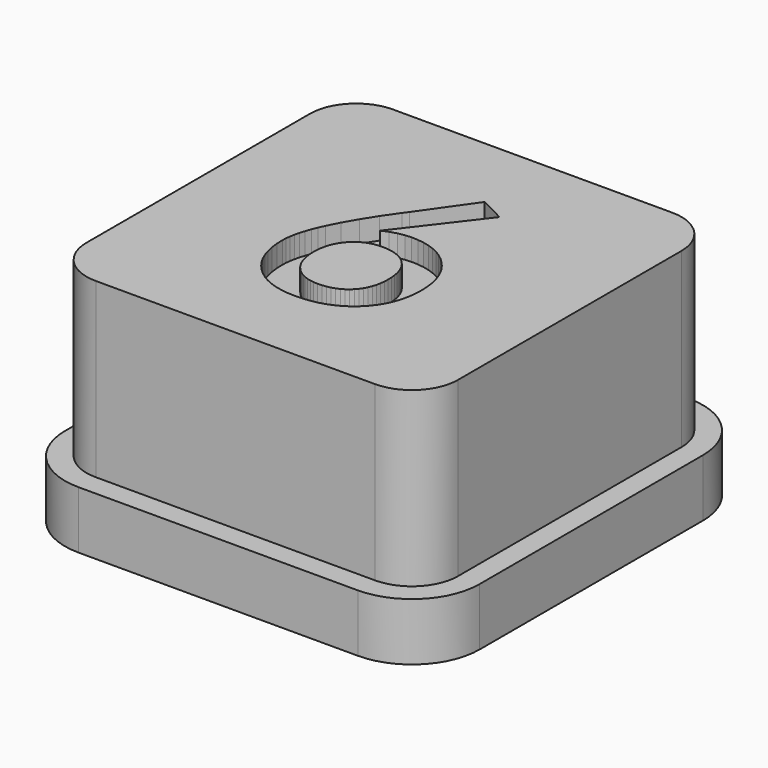
from build123d import *

# Parameters (mm, degrees)
F1_DEPTH = 2
F2_DEPTH = 8
F3_DEPTH = 7.25


with BuildPart() as f1:
    # F0 (on Top) → F1 (new body)
    with BuildSketch(Plane.XY):
        with BuildLine():
            Line((4.85, 7.2), (-4.85, 7.2))
            ThreePointArc((-4.85, 7.2), (-6.5117009358, 6.5117009358), (-7.2, 4.85))
            Line((-7.2, 4.85), (-7.2, -4.85))
            ThreePointArc((-7.2, -4.85), (-6.5117009358, -6.5117009358), (-4.85, -7.2))
            Line((-4.85, -7.2), (4.85, -7.2))
            ThreePointArc((4.85, -7.2), (6.5117009358, -6.5117009358), (7.2, -4.85))
            Line((7.2, -4.85), (7.2, 4.85))
            ThreePointArc((7.2, 4.85), (6.5117009358, 6.5117009358), (4.85, 7.2))
        make_face()
        with BuildLine():
            ThreePointArc((6.45, -4.85), (5.9813708499, -5.9813708499), (4.85, -6.45))
            Line((4.85, -6.45), (-4.85, -6.45))
            ThreePointArc((-4.85, -6.45), (-5.9813708499, -5.9813708499), (-6.45, -4.85))
            Line((-6.45, -4.85), (-6.45, 4.85))
            ThreePointArc((-6.45, 4.85), (-5.9813708499, 5.9813708499), (-4.85, 6.45))
            Line((-4.85, 6.45), (4.85, 6.45))
            ThreePointArc((4.85, 6.45), (5.9813708499, 5.9813708499), (6.45, 4.85))
            Line((6.45, 4.85), (6.45, -4.85))
        make_face(mode=Mode.SUBTRACT)
    extrude(amount=F1_DEPTH)

    # F0 (on Top) → F2 (join)
    with BuildSketch(Plane.XY):
        with BuildLine():
            Line((-4.85, -6.45), (4.85, -6.45))
            ThreePointArc((4.85, -6.45), (5.9813708499, -5.9813708499), (6.45, -4.85))
            Line((6.45, -4.85), (6.45, 4.85))
            ThreePointArc((6.45, 4.85), (5.9813708499, 5.9813708499), (4.85, 6.45))
            Line((4.85, 6.45), (-4.85, 6.45))
            ThreePointArc((-4.85, 6.45), (-5.9813708499, 5.9813708499), (-6.45, 4.85))
            Line((-6.45, 4.85), (-6.45, -4.85))
            ThreePointArc((-6.45, -4.85), (-5.9813708499, -5.9813708499), (-4.85, -6.45))
        make_face()
        Polygon((1.355533, 3.320697), (-0.67179, 0.676571), (-0.439293, 0.773395), (-0.210383, 0.843921), (0.016137, 0.886954), (0.241462, 0.901298), (0.470596, 0.891361), (0.689421, 0.861552), (0.897936, 0.81187), (1.096141, 0.742316), (1.284036, 0.652888), (1.461621, 0.543588), (1.628896, 0.414415), (1.785861, 0.265369), (1.928183, 0.100858), (2.051528, -0.07471), (2.155898, -0.261335), (2.241291, -0.459016), (2.307708, -0.667755), (2.355149, -0.887551), (2.383613, -1.118404), (2.393101, -1.360314), (2.382455, -1.62389), (2.350517, -1.874317), (2.297286, -2.111595), (2.222763, -2.335724), (2.126948, -2.546704), (2.00984, -2.744536), (1.871441, -2.929218), (1.711749, -3.100751), (1.534649, -3.2554), (1.344027, -3.38943), (1.139883, -3.502839), (0.922217, -3.595628), (0.691027, -3.667798), (0.446316, -3.719348), (0.188082, -3.750277), (-0.083675, -3.760587), (-0.337875, -3.750502), (-0.579299, -3.720244), (-0.807948, -3.669815), (-1.023822, -3.599214), (-1.22692, -3.508442), (-1.417243, -3.397498), (-1.594791, -3.266383), (-1.759563, -3.115096), (-1.908048, -2.947372), (-2.036736, -2.766948), (-2.145625, -2.573824), (-2.234717, -2.367999), (-2.30401, -2.149473), (-2.353505, -1.918246), (-2.383202, -1.674319), (-2.393101, -1.417691), (-2.387124, -1.273221), (-2.369194, -1.12072), (-2.33931, -0.960188), (-2.297473, -0.791624), (-2.243682, -0.615029), (-2.177937, -0.430403), (-2.100239, -0.237745), (-2.010587, -0.037056), (-1.795423, 0.388416), (-1.532445, 0.846013), (-1.221653, 1.335735), (-0.863046, 1.857582), (-0.73873, 2.024932), (0.485314, 3.760587), align=None, mode=Mode.SUBTRACT)
    extrude(amount=F2_DEPTH)



with BuildPart() as f2:
    # F0 (on Top) → F2, piece 2 (new body)
    with BuildSketch(Plane.XY):
        Polygon((-1.302227, -1.275519), (-1.307719, -1.427254), (-1.302265, -1.580035), (-1.285903, -1.725196), (-1.258634, -1.862737), (-1.220458, -1.992657), (-1.171373, -2.114957), (-1.111381, -2.229636), (-1.040482, -2.336695), (-0.958675, -2.436134), (-0.868201, -2.525786), (-0.771303, -2.603484), (-0.667979, -2.669228), (-0.558231, -2.723019), (-0.442057, -2.764857), (-0.319459, -2.79474), (-0.190435, -2.812671), (-0.054986, -2.818648), (0.097421, -2.81282), (0.241462, -2.795338), (0.377135, -2.766201), (0.50444, -2.72541), (0.623378, -2.672964), (0.733948, -2.608863), (0.836151, -2.533107), (0.929986, -2.445697), (1.014035, -2.348201), (1.086877, -2.242188), (1.148512, -2.127658), (1.198941, -2.004611), (1.238164, -1.873047), (1.26618, -1.732966), (1.28299, -1.584369), (1.288593, -1.427254), (1.283064, -1.267936), (1.266479, -1.117508), (1.238836, -0.97597), (1.200137, -0.843323), (1.15038, -0.719566), (1.089566, -0.6047), (1.017696, -0.498725), (0.934768, -0.401639), (0.842053, -0.314789), (0.740821, -0.239519), (0.631073, -0.175829), (0.512807, -0.123719), (0.386025, -0.083189), (0.250726, -0.054239), (0.10691, -0.036869), (-0.045423, -0.031079), (-0.18203, -0.037131), (-0.312137, -0.055285), (-0.435744, -0.085543), (-0.552852, -0.127903), (-0.663459, -0.182366), (-0.767567, -0.248933), (-0.865176, -0.327602), (-0.956284, -0.418374), (-1.038652, -0.518859), (-1.110037, -0.626665), (-1.17044, -0.741793), (-1.21986, -0.864242), (-1.258298, -0.994013), (-1.285754, -1.131105), align=None)
    extrude(amount=F2_DEPTH)


with BuildPart() as f1_1:
    add(f1.part)

    add(f2.part)  # F3 merges F2
    # F0 (on Top) → F3 (join)
    with BuildSketch(Plane.XY):
        Polygon((-0.439293, 0.773395), (-0.67179, 0.676571), (1.355533, 3.320697), (0.485314, 3.760587), (-0.73873, 2.024932), (-0.863046, 1.857582), (-1.221653, 1.335735), (-1.532445, 0.846013), (-1.795423, 0.388416), (-2.010587, -0.037056), (-2.100239, -0.237745), (-2.177937, -0.430403), (-2.243682, -0.615029), (-2.297473, -0.791624), (-2.33931, -0.960188), (-2.369194, -1.12072), (-2.387124, -1.273221), (-2.393101, -1.417691), (-2.383202, -1.674319), (-2.353505, -1.918246), (-2.30401, -2.149473), (-2.234717, -2.367999), (-2.145625, -2.573824), (-2.036736, -2.766948), (-1.908048, -2.947372), (-1.759563, -3.115096), (-1.594791, -3.266383), (-1.417243, -3.397498), (-1.22692, -3.508442), (-1.023822, -3.599214), (-0.807948, -3.669815), (-0.579299, -3.720244), (-0.337875, -3.750502), (-0.083675, -3.760587), (0.188082, -3.750277), (0.446316, -3.719348), (0.691027, -3.667798), (0.922217, -3.595628), (1.139883, -3.502839), (1.344027, -3.38943), (1.534649, -3.2554), (1.711749, -3.100751), (1.871441, -2.929218), (2.00984, -2.744536), (2.126948, -2.546704), (2.222763, -2.335724), (2.297286, -2.111595), (2.350517, -1.874317), (2.382455, -1.62389), (2.393101, -1.360314), (2.383613, -1.118404), (2.355149, -0.887551), (2.307708, -0.667755), (2.241291, -0.459016), (2.155898, -0.261335), (2.051528, -0.07471), (1.928183, 0.100858), (1.785861, 0.265369), (1.628896, 0.414415), (1.461621, 0.543588), (1.284036, 0.652888), (1.096141, 0.742316), (0.897936, 0.81187), (0.689421, 0.861552), (0.470596, 0.891361), (0.241462, 0.901298), (0.016137, 0.886954), (-0.210383, 0.843921), align=None)
        Polygon((-1.302265, -1.580035), (-1.307719, -1.427254), (-1.302227, -1.275519), (-1.285754, -1.131105), (-1.258298, -0.994013), (-1.21986, -0.864242), (-1.17044, -0.741793), (-1.110037, -0.626665), (-1.038652, -0.518859), (-0.956284, -0.418374), (-0.865176, -0.327602), (-0.767567, -0.248933), (-0.663459, -0.182366), (-0.552852, -0.127903), (-0.435744, -0.085543), (-0.312137, -0.055285), (-0.18203, -0.037131), (-0.045423, -0.031079), (0.10691, -0.036869), (0.250726, -0.054239), (0.386025, -0.083189), (0.512807, -0.123719), (0.631073, -0.175829), (0.740821, -0.239519), (0.842053, -0.314789), (0.934768, -0.401639), (1.017696, -0.498725), (1.089566, -0.6047), (1.15038, -0.719566), (1.200137, -0.843323), (1.238836, -0.97597), (1.266479, -1.117508), (1.283064, -1.267936), (1.288593, -1.427254), (1.28299, -1.584369), (1.26618, -1.732966), (1.238164, -1.873047), (1.198941, -2.004611), (1.148512, -2.127658), (1.086877, -2.242188), (1.014035, -2.348201), (0.929986, -2.445697), (0.836151, -2.533107), (0.733948, -2.608863), (0.623378, -2.672964), (0.50444, -2.72541), (0.377135, -2.766201), (0.241462, -2.795338), (0.097421, -2.81282), (-0.054986, -2.818648), (-0.190435, -2.812671), (-0.319459, -2.79474), (-0.442057, -2.764857), (-0.558231, -2.723019), (-0.667979, -2.669228), (-0.771303, -2.603484), (-0.868201, -2.525786), (-0.958675, -2.436134), (-1.040482, -2.336695), (-1.111381, -2.229636), (-1.171373, -2.114957), (-1.220458, -1.992657), (-1.258634, -1.862737), (-1.285903, -1.725196), align=None, mode=Mode.SUBTRACT)
    extrude(amount=F3_DEPTH)


solid = f1_1.part
